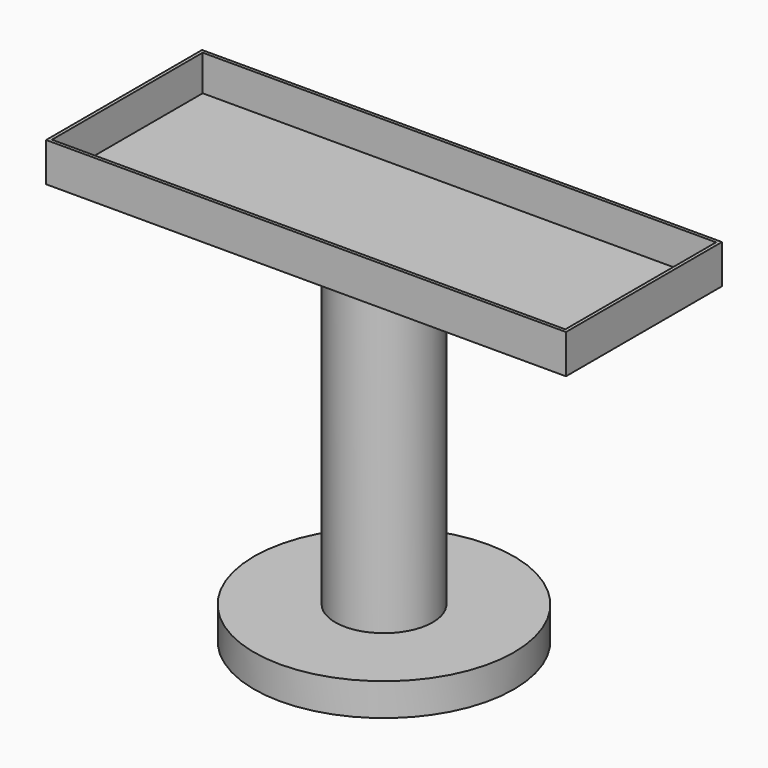
from build123d import *

# Parameters (mm, degrees)
F0_R     = 50.8
F1_DEPTH = 12.7
F2_R     = 19.05
F3_DEPTH = 127
F4_W     = 203.2
F4_H     = 76.2
F4_R     = 19.05
F5_DEPTH = 15.24
F6_T     = -1.27


with BuildPart() as f1:
    # F0 (on Top) → F1 (new body)
    with BuildSketch(Plane.XY):
        Circle(F0_R)
    extrude(amount=F1_DEPTH)

    # F2 (on face) → F3 (join)
    with BuildSketch(Plane.XY.offset(12.7)):
        Circle(F2_R)
    extrude(amount=F3_DEPTH)


with BuildPart() as f5:
    # F4 (on face) → F5 (new body)
    with BuildSketch(Plane.XY.offset(139.7)):
        Rectangle(F4_W, F4_H)
        Circle(F4_R, mode=Mode.SUBTRACT)
        Circle(F4_R)
    extrude(amount=F5_DEPTH)

    # F6
    f6_openings = [f5.faces().sort_by_distance(p)[0] for p in [
        (0, 0, 154.94),
    ]]
    offset(amount=F6_T, openings=f6_openings)


solid = Compound([f1.part, f5.part])
